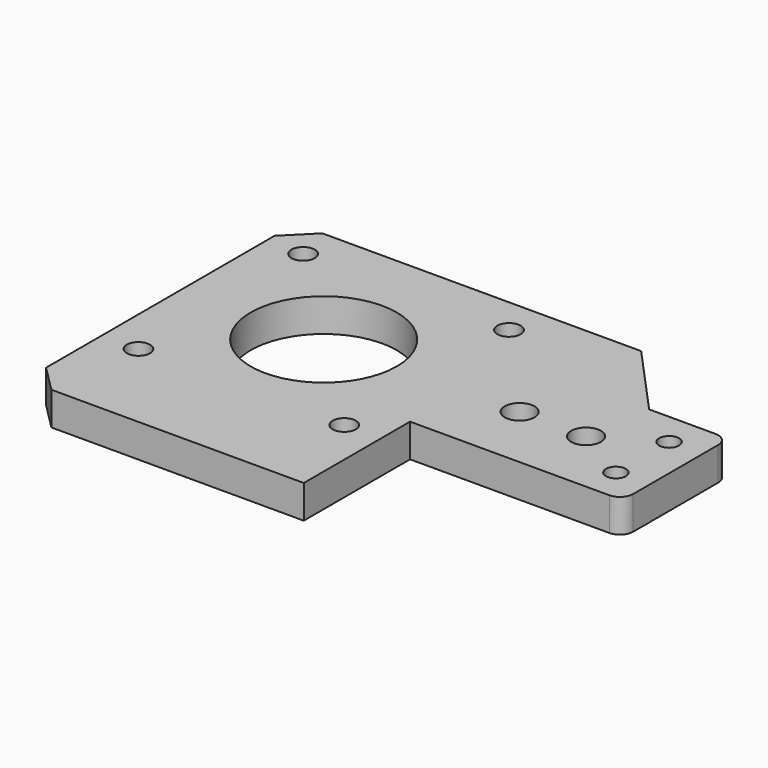
from build123d import *

# Parameters (mm, degrees)
F0_R     = 1.75
F0_R_2   = 11
F0_R_3   = 1.5
F0_R_4   = 2.25
F1_DEPTH = 5
F2_R     = 2.5
F2_R_2   = 1.5
F3_DEPTH = 2.5
F4_SIZE  = 1
F5_SIZE  = 4
F6_R     = 2


with BuildPart() as f1:
    # F0 (on Top) → F1 (new body)
    with BuildSketch(Plane.XY):
        Polygon((12.877052, 25.577868), (-29.122948, 25.577868), (-29.122948, -25.422132), (12.877052, -25.422132), (12.877052, -5.422132), align=None)
        with Locations((-23.622948, -10.922132)):
            Circle(F0_R, mode=Mode.SUBTRACT)
        with Locations((7.377052, -10.922132)):
            Circle(F0_R, mode=Mode.SUBTRACT)
        with Locations((-8.122948, 4.577868)):
            Circle(F0_R_2, mode=Mode.SUBTRACT)
        with Locations((-23.622948, 20.077868)):
            Circle(F0_R, mode=Mode.SUBTRACT)
        with Locations((7.377052, 20.077868)):
            Circle(F0_R, mode=Mode.SUBTRACT)
        Polygon((22.877052, 25.577868), (12.877052, 25.577868), (12.877052, -5.422132), (44.877052, -5.422132), (44.877052, 14.577868), (32.877052, 14.577868), align=None)
        with Locations((39.877052, -0.422132)):
            Circle(F0_R_3, mode=Mode.SUBTRACT)
        with Locations((21.377052, 4.577868)):
            Circle(F0_R_4, mode=Mode.SUBTRACT)
        with Locations((31.377052, 4.577868)):
            Circle(F0_R_4, mode=Mode.SUBTRACT)
        with Locations((39.877052, 9.577868)):
            Circle(F0_R_3, mode=Mode.SUBTRACT)
    extrude(amount=F1_DEPTH)

    # F2 (on face) → F3 (cut)
    with BuildSketch(Plane.XY):
        with Locations((39.890356, -0.446285)):
            Circle(F2_R)
        with Locations((39.877052, -0.422132)):
            Circle(F2_R_2, mode=Mode.SUBTRACT)
        with Locations((39.864622, 9.593817)):
            Circle(F2_R)
    extrude(amount=F3_DEPTH, mode=Mode.SUBTRACT)

    # F4
    f4_edges = [f1.edges().sort_by_distance(p)[0] for p in [
        (-25.372948, 20.077868, 0),
        (5.627052, 20.077868, 0),
        (5.627052, -10.922132, 0),
        (-25.372948, -10.922132, 0),
    ]]
    chamfer(f4_edges, length=F4_SIZE)

    # F5
    f5_edges = [f1.edges().sort_by_distance(p)[0] for p in [
        (-29.122948, 25.577868, 2.5),
        (-29.122948, -25.422132, 2.5),
    ]]
    chamfer(f5_edges, length=F5_SIZE)

    # F6
    f6_edges = [f1.edges().sort_by_distance(p)[0] for p in [
        (44.877052, 14.577868, 2.5),
        (44.877052, -5.422132, 2.5),
    ]]
    fillet(f6_edges, radius=F6_R)


solid = f1.part
